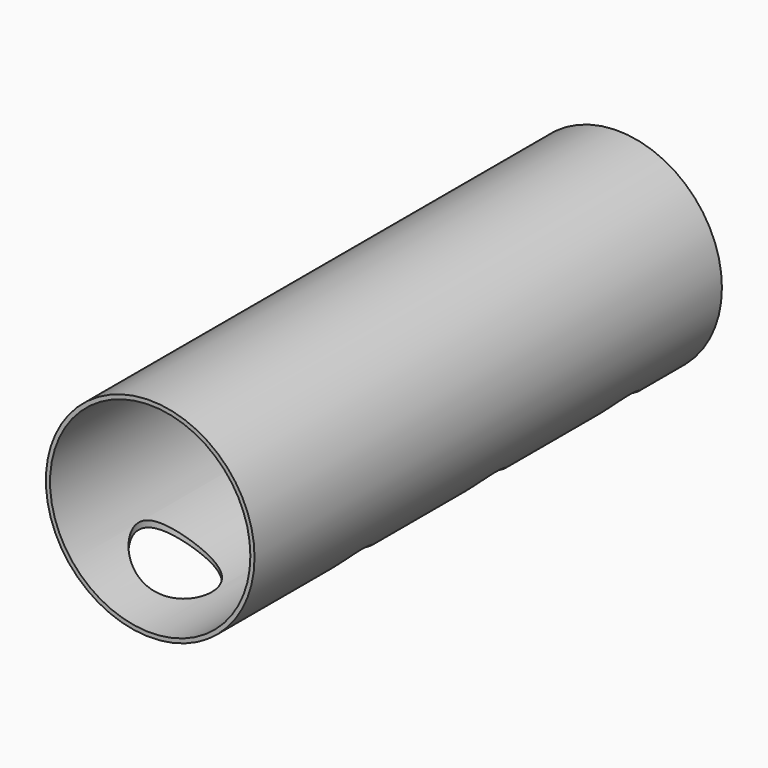
from build123d import *

# Parameters (mm, degrees)
F0_R     = 63.5
F1_DEPTH = 355.6
F2_DEPTH = 355.6
F4_T     = -2.54
F5_D     = 44.45
F5_DEPTH = 12.7
F5_START = 21.498698
F5_TIP   = 13.3541272579


with BuildPart() as f1:
    # F0 (on Front) → F1 (new body)
    with BuildSketch(Plane.XZ):
        with Locations((0, 63.5)):
            Circle(F0_R)
    extrude(amount=F1_DEPTH)

    # F0 (on Front) → F2 (join)
    with BuildSketch(Plane.XZ):
        with Locations((0, 63.5)):
            Circle(F0_R)
    extrude(amount=F2_DEPTH)

    # F4
    f4_openings = [f1.faces().sort_by_distance(p)[0] for p in [
        (0, -355.6, 63.5),
    ]]
    offset(amount=F4_T, openings=f4_openings)

    # F5
    # its depths count from where the whole tool has entered the part; down to there all is cleared
    with Locations(Plane(origin=(0, 0, 0), x_dir=(1, 0, 0), z_dir=(0, 0, -1))):
        with Locations((-25.4, 304.8), (25.4, 254), (-25.4, 203.2), (25.4, 152.4), (-25.4, 101.6), (25.4, 50.8)):
            Hole(F5_D / 2, depth=F5_START)
    with Locations(Plane(origin=(0, 0, 0), x_dir=(1, 0, 0), z_dir=(0, 0, -1)).offset(-F5_START)):
        with Locations((-25.4, 304.8), (25.4, 254), (-25.4, 203.2), (25.4, 152.4), (-25.4, 101.6), (25.4, 50.8)):
            Hole(F5_D / 2, depth=F5_DEPTH)
            with Locations((0, 0, -(F5_DEPTH + F5_TIP / 2))):  # 118° drill point
                Cone(0, F5_D / 2, F5_TIP, mode=Mode.SUBTRACT)


solid = f1.part
